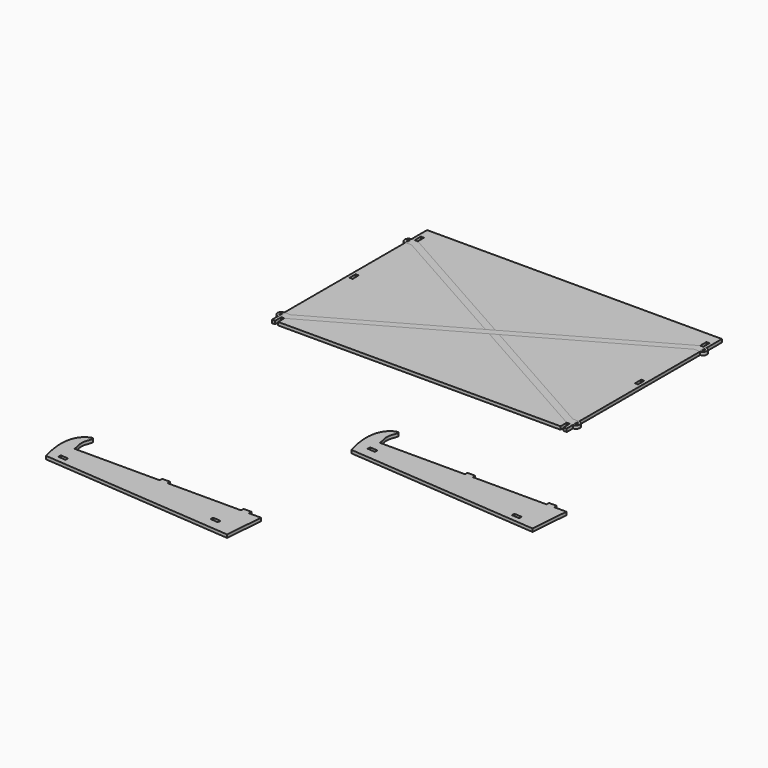
from build123d import *

# Parameters (mm, degrees)
F0_W     = 4
F0_H     = 85
F0_H_2   = 100
F0_H_3   = 15
F0_H_4   = 10
F0_W_2   = 1.6347891092
F0_H_5   = 4
F0_W_3   = 1.5
F1_DEPTH = 4
F2_DEPTH = 4
F3_DEPTH = 4
F4_DEPTH = 4
F5_DEPTH = 4


with BuildPart() as f1:
    # F0 (on Top) → F1 (new body)
    with BuildSketch(Plane.XY):
        with Locations((184, 47.5)):
            Rectangle(F0_W, F0_H)
        Polygon((182, -115), (182, -105), (8.8780487805, -7.5), (0, -12.5), align=None)
        Polygon((182, 110), (182, 125), (-182, 125), (-182, 110), (-182, 100), (0, -2.5), (182, 100), align=None)
        Polygon((-186, 110), (-186, 125), (-190, 125), (-190, 99.7567328215), (-186, 100), align=None)
        Polygon((182, 90), (182, 100), (0, -2.5), (8.8780487805, -7.5), align=None)
        with Locations((184, -55)):
            Rectangle(F0_W, F0_H_2)
        with Locations((-184, 47.5)):
            Rectangle(F0_W, F0_H)
        with Locations((184, 117.5)):
            Rectangle(F0_W, F0_H_3)
        Polygon((182, 5), (182, 90), (8.8780487805, -7.5), (182, -105), (182, -5), align=None)
        with Locations((-184, -55)):
            Rectangle(F0_W, F0_H_2)
        with Locations((-184, 117.5)):
            Rectangle(F0_W, F0_H_3)
        Polygon((-182, -105), (-8.8780487805, -7.5), (-182, 90), (-182, 5), (-182, -5), align=None)
        Polygon((182, -125), (182, -115), (0, -12.5), (-182, -115), (-182, -125), align=None)
        Polygon((0, -12.5), (-8.8780487805, -7.5), (-182, -105), (-182, -115), align=None)
        Polygon((8.8780487805, -7.5), (0, -2.5), (-8.8780487805, -7.5), (0, -12.5), align=None)
        Polygon((190, -105), (190, 90), (186, 90), (186, 5), (186, -5), (186, -105), align=None)
        Polygon((190, 99.7567328215), (190, 125), (186, 125), (186, 110), (186, 100), align=None)
        Polygon((-182, -115), (-182, -105), (-186, -105), (-190, -105), (-190, -108), (-188.5, -108), (-188.5, -112), (-190, -112), (-190, -115), (-186, -115), align=None)
        with Locations((184, 95)):
            Rectangle(F0_W, F0_H_4)
        with Locations((-188, -120)):
            Rectangle(F0_W, F0_H_4)
        Polygon((190, 96.8783664107), (190, 99.7567328215), (186, 100), (186, 90), (190, 90), (190, 92.8783664107), (188.3652108908, 92.8783664107), (188.3652108908, 96.8783664107), align=None)
        Polygon((190, -108), (190, -105), (186, -105), (186, -115), (190, -115), (190, -112), (188.5, -112), (188.5, -108), align=None)
        with Locations((184, -110)):
            Rectangle(F0_W, F0_H_4)
        with Locations((188, -120)):
            Rectangle(F0_W, F0_H_4)
        Polygon((-8.8780487805, -7.5), (0, -2.5), (-182, 100), (-186, 100), (-190, 99.7567328215), (-190, 96.8783664107), (-188.3652108908, 96.8783664107), (-188.3652108908, 92.8783664107), (-190, 92.8783664107), (-190, 90), (-186, 90), (-182, 90), align=None)
        Polygon((-186, 90), (-190, 90), (-190, -105), (-186, -105), (-186, -5), (-186, 5), align=None)
        Polygon((-188.5, -108), (-190, -108), (-190, -110), (-190, -112), (-188.5, -112), align=None)
        with Locations((-189.1826054454, 94.8783664107)):
            Rectangle(F0_W_2, F0_H_5)
        with Locations((189.1826054454, 94.8783664107)):
            Rectangle(F0_W_2, F0_H_5)
        with Locations((189.25, -110)):
            Rectangle(F0_W_3, F0_H_5)
    extrude(amount=F1_DEPTH)


with BuildPart() as f2:
    # F0 (on Top) → F2 (new body)
    with BuildSketch(Plane.XY):
        Polygon((-8.8780487805, -7.5), (0, -2.5), (-182, 100), (-186, 100), (-190, 99.7567328215), (-190, 96.8783664107), (-188.3652108908, 96.8783664107), (-188.3652108908, 92.8783664107), (-190, 92.8783664107), (-190, 90), (-186, 90), (-182, 90), align=None)
        with BuildLine():
            Line((-190, 96.8783664107), (-190, 99.7567328215))
            ThreePointArc((-190, 99.7567328215), (-194.7454390557, 94.8783664107), (-190, 90))
            Line((-190, 90), (-190, 92.8783664107))
            Line((-190, 92.8783664107), (-191.3652108908, 92.8783664107))
            Line((-191.3652108908, 92.8783664107), (-191.3652108908, 96.8783664107))
            Line((-191.3652108908, 96.8783664107), (-190, 96.8783664107))
        make_face()
        Polygon((8.8780487805, -7.5), (0, -2.5), (-8.8780487805, -7.5), (0, -12.5), align=None)
        Polygon((182, -115), (182, -105), (8.8780487805, -7.5), (0, -12.5), align=None)
        with Locations((184, -110)):
            Rectangle(F0_W, F0_H_4)
        with BuildLine():
            ThreePointArc((190, -115), (195, -110), (190, -105))
            Line((190, -105), (190, -108))
            Line((190, -108), (191.5, -108))
            Line((191.5, -108), (191.5, -112))
            Line((191.5, -112), (190, -112))
            Line((190, -112), (190, -115))
        make_face()
        Polygon((190, -108), (190, -105), (186, -105), (186, -115), (190, -115), (190, -112), (188.5, -112), (188.5, -108), align=None)
    extrude(amount=F2_DEPTH)


with BuildPart() as f3:
    # F0 (on Top) → F3 (new body)
    with BuildSketch(Plane.XY):
        Polygon((0, -12.5), (-8.8780487805, -7.5), (-182, -105), (-182, -115), align=None)
        Polygon((-182, -115), (-182, -105), (-186, -105), (-190, -105), (-190, -108), (-188.5, -108), (-188.5, -112), (-190, -112), (-190, -115), (-186, -115), align=None)
        with BuildLine():
            Line((-190, -108), (-190, -105))
            ThreePointArc((-190, -105), (-195, -110), (-190, -115))
            Line((-190, -115), (-190, -112))
            Line((-190, -112), (-191.5, -112))
            Line((-191.5, -112), (-191.5, -108))
            Line((-191.5, -108), (-190, -108))
        make_face()
        Polygon((8.8780487805, -7.5), (0, -2.5), (-8.8780487805, -7.5), (0, -12.5), align=None)
        Polygon((182, 90), (182, 100), (0, -2.5), (8.8780487805, -7.5), align=None)
        with Locations((184, 95)):
            Rectangle(F0_W, F0_H_4)
        Polygon((190, 96.8783664107), (190, 99.7567328215), (186, 100), (186, 90), (190, 90), (190, 92.8783664107), (188.3652108908, 92.8783664107), (188.3652108908, 96.8783664107), align=None)
        with BuildLine():
            ThreePointArc((190, 90), (194.7454390557, 94.8783664107), (190, 99.7567328215))
            Line((190, 99.7567328215), (190, 96.8783664107))
            Line((190, 96.8783664107), (191.3652108908, 96.8783664107))
            Line((191.3652108908, 96.8783664107), (191.3652108908, 92.8783664107))
            Line((191.3652108908, 92.8783664107), (190, 92.8783664107))
            Line((190, 92.8783664107), (190, 90))
        make_face()
    extrude(amount=F3_DEPTH)


with BuildPart() as f4:
    # F0 (on Top) → F4 (new body)
    with BuildSketch(Plane.XY):
        with BuildLine():
            add(Edge.make_bspline(
                [(49.8018445918, -296.664855781), (46.8551157009, -286.9380358047), (42.5517620483, -266.389684647), (48.3215650847, -242.4866813126), (64.9195225978, -234.4008538552), (61.9733688582, -244.9728526655), (58.372137132, -251.6741404231), (62.1620829211, -262.7603751421)],
                knots=[0, 0, 0, 0, 0.268773055, 0.5053433296, 0.6718951956, 0.7850531186, 1, 1, 1, 1], degree=3))
            Line((49.8018445918, -296.664855781), (299.0056659804, -316.6011394198))
            Line((299.0056659804, -316.6011394198), (302.9929227081, -266.7603751421))
            Line((302.9929227081, -266.7603751421), (287.1939227081, -266.7603751421))
            Line((287.1939227081, -266.7603751421), (287.1939227081, -262.7603751421))
            Line((287.1939227081, -262.7603751421), (277.1939227081, -262.7603751421))
            Line((277.1939227081, -262.7603751421), (277.1939227081, -266.7603751421))
            Line((277.1939227081, -266.7603751421), (182.1939227081, -266.7603751421))
            Line((182.1939227081, -266.7603751421), (182.1939227081, -262.7603751421))
            Line((182.1939227081, -262.7603751421), (172.1939227081, -262.7603751421))
            Line((172.1939227081, -262.7603751421), (172.1939227081, -266.7603751421))
            Line((172.1939227081, -266.7603751421), (62.1620829211, -266.7603751421))
            Line((62.1620829211, -266.7603751421), (62.1620829211, -262.7603751421))
        make_face()
        Polygon((60.3280570349, -290.4845876194), (60.6470375731, -286.4973264772), (70.6151904286, -287.2947778227), (70.2962098904, -291.2820389649), align=None, mode=Mode.SUBTRACT)
        Polygon((70.7747174875, -285.3011501948), (60.8065646316, -284.5036988492), (61.1255083804, -280.5164347638), (71.0936612364, -281.3138861094), align=None, mode=Mode.SUBTRACT)
        Polygon((274.6434997834, -307.6298040571), (264.6753469279, -306.8323527115), (264.9943274661, -302.8450915693), (274.9624803216, -303.6425429148), align=None, mode=Mode.SUBTRACT)
        Polygon((275.440951129, -297.6616512015), (275.1219705907, -301.6489123437), (265.1538177352, -300.8514609982), (265.4727982734, -296.864199856), align=None, mode=Mode.SUBTRACT)
        Polygon((265.1538177352, -300.8514609982), (275.1219705907, -301.6489123437), (275.440951129, -297.6616512015), (265.4727982734, -296.864199856), align=None)
        Polygon((70.6151904286, -287.2947778227), (60.6470375731, -286.4973264772), (60.3280570349, -290.4845876194), (70.2962098904, -291.2820389649), align=None)
    extrude(amount=F4_DEPTH)


with BuildPart() as f5:
    # F0 (on Top) → F5 (new body)
    with BuildSketch(Plane.XY):
        with BuildLine():
            add(Edge.make_bspline(
                [(-182.0074226772, -498.846749809), (-184.9541515682, -489.1199298326), (-189.2575052207, -468.571578675), (-183.4877021844, -444.6685753405), (-166.8897446713, -436.5827478832), (-169.8358984108, -447.1547466935), (-173.4371301371, -453.8560344511), (-169.6471843479, -464.94226917)],
                knots=[0, 0, 0, 0, 0.268773055, 0.5053433296, 0.6718951956, 0.7850531186, 1, 1, 1, 1], degree=3))
            Line((-182.0074226772, -498.846749809), (67.1963987113, -518.7830334478))
            Line((67.1963987113, -518.7830334478), (71.1836554391, -468.94226917))
            Line((71.1836554391, -468.94226917), (55.3846554391, -468.94226917))
            Line((55.3846554391, -468.94226917), (55.3846554391, -464.94226917))
            Line((55.3846554391, -464.94226917), (45.3846554391, -464.94226917))
            Line((45.3846554391, -464.94226917), (45.3846554391, -468.94226917))
            Line((45.3846554391, -468.94226917), (-49.6153445609, -468.94226917))
            Line((-49.6153445609, -468.94226917), (-49.6153445609, -464.94226917))
            Line((-49.6153445609, -464.94226917), (-59.6153445609, -464.94226917))
            Line((-59.6153445609, -464.94226917), (-59.6153445609, -468.94226917))
            Line((-59.6153445609, -468.94226917), (-169.6471843479, -468.94226917))
            Line((-169.6471843479, -468.94226917), (-169.6471843479, -464.94226917))
        make_face()
        Polygon((-171.4812102342, -492.6664816473), (-171.162229696, -488.6792205051), (-161.1940768404, -489.4766718507), (-161.5130573786, -493.4639329929), align=None, mode=Mode.SUBTRACT)
        Polygon((-161.0345497815, -487.4830442227), (-171.0027026375, -486.6855928771), (-170.6837588886, -482.6983287918), (-160.7156060327, -483.4957801374), align=None, mode=Mode.SUBTRACT)
        Polygon((42.8342325144, -509.811698085), (32.8660796588, -509.0142467395), (33.185060197, -505.0269855972), (43.1532130526, -505.8244369428), align=None, mode=Mode.SUBTRACT)
        Polygon((43.6316838599, -499.8435452295), (43.3127033217, -503.8308063717), (33.3445504662, -503.0333550261), (33.6635310044, -499.0460938839), align=None, mode=Mode.SUBTRACT)
        Polygon((-170.6837588886, -482.6983287918), (-171.0027026375, -486.6855928771), (-161.0345497815, -487.4830442227), (-160.7156060327, -483.4957801374), align=None)
        Polygon((33.185060197, -505.0269855972), (32.8660796588, -509.0142467395), (42.8342325144, -509.811698085), (43.1532130526, -505.8244369428), align=None)
    extrude(amount=F5_DEPTH)


solid = Compound([f1.part, f2.part, f3.part, f4.part, f5.part])
